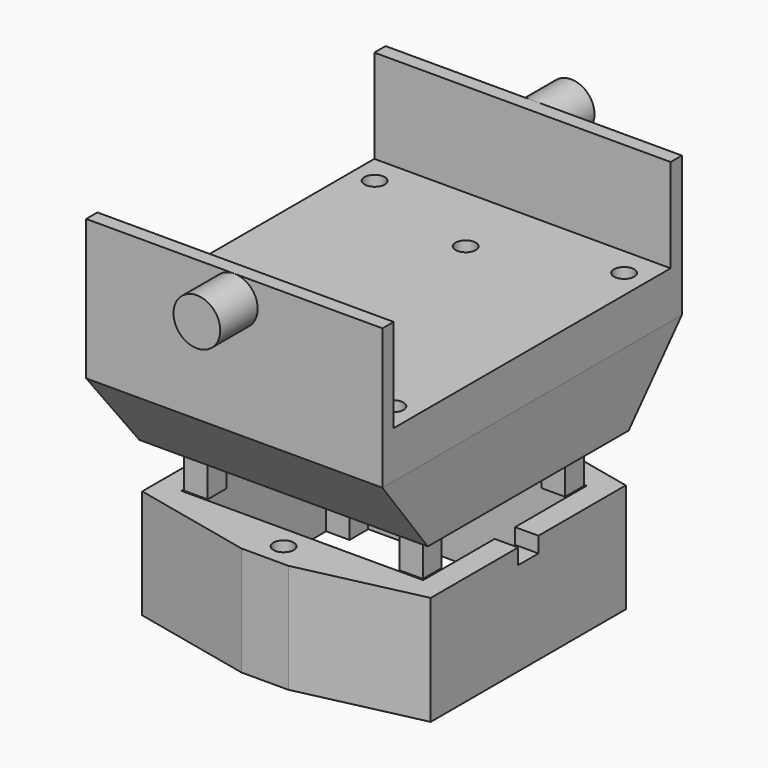
from build123d import *

# Parameters (mm, degrees)
SKETCH_W        = 19
SKETCH_H        = 24
SKETCH_R        = 0.65
PAD_DEPTH       = 9
SKETCH002_W     = 22.2
SKETCH002_H     = 9
POCKET_DEPTH    = 19.001
SKETCH003_W     = 18.5
SKETCH003_H     = 16.1
SKETCH004_W     = 19
SKETCH004_H     = 24
SKETCH009_R     = 0.65
POCKET003_DEPTH = 14.001
SKETCH010_W     = 15.3
SKETCH010_H     = 12.9
PAD002_DEPTH    = 3
POCKET004_DEPTH = 3
SKETCH013_R     = 1.5
PAD003_DEPTH    = 3
SKETCH014_R     = 1.5
PAD004_DEPTH    = 3
PAD001_DEPTH    = 7
SKETCH006_R     = 0.65
POCKET001_DEPTH = 7.001
SKETCH008_W     = 15.5
SKETCH008_H     = 13.1
POCKET002_DEPTH = 5.2
SKETCH015_W     = 1.635484
SKETCH015_H     = 1
POCKET005_DEPTH = 30


with BuildPart() as body:
    # Sketch → Pad (new body)
    with BuildSketch(Plane.XY):
        with Locations((9.5, 11)):
            Rectangle(SKETCH_W, SKETCH_H)
        with Locations((1.5, 20.25)):
            Circle(SKETCH_R, mode=Mode.SUBTRACT)
        with Locations((17.5, 20.25)):
            Circle(SKETCH_R, mode=Mode.SUBTRACT)
        with Locations((17.5, 1.75)):
            Circle(SKETCH_R, mode=Mode.SUBTRACT)
        with Locations((1.5, 1.75)):
            Circle(SKETCH_R, mode=Mode.SUBTRACT)
    extrude(amount=PAD_DEPTH)

    # Sketch002 (on Face4 of Pad) → Pocket (cut, through all)
    with BuildSketch(Plane(origin=(0, 0, 0), x_dir=(0, -1, 0), z_dir=(-1, 0, 0))):
        with Locations((-11, 7.5)):
            Rectangle(SKETCH002_W, SKETCH002_H)
    extrude(amount=-POCKET_DEPTH, mode=Mode.SUBTRACT)

    # Sketch003 → AdditiveLoft section 0
    with BuildSketch(Plane.XY.offset(-5)):
        with Locations((9.5, 11)):
            Rectangle(SKETCH003_W, SKETCH003_H)
    # Sketch004 → AdditiveLoft section 1
    with BuildSketch(Plane.XY):
        with Locations((9.5, 11)):
            Rectangle(SKETCH004_W, SKETCH004_H)
    loft()

    # Sketch009 (on Face13 of AdditiveLoft) → Pocket003 (cut, through all)
    with BuildSketch(Plane(origin=(0, 0, -5), x_dir=(1, 0, 0), z_dir=(0, 0, -1))):
        with Locations((9.5, -4.45)):
            Circle(SKETCH009_R)
        with Locations((9.5, -17.55)):
            Circle(SKETCH009_R)
    extrude(amount=-POCKET003_DEPTH, mode=Mode.SUBTRACT)

    # Sketch010 (on Face13 of Pocket003) → Pad002 (join)
    with BuildSketch(Plane(origin=(0, 0, -5), x_dir=(1, 0, 0), z_dir=(0, 0, -1))):
        with Locations((9.5, -11)):
            Rectangle(SKETCH010_W, SKETCH010_H)
    extrude(amount=PAD002_DEPTH)

    # Sketch011 (on Face31 of Pad002) → Pocket004 (cut)
    with BuildSketch(Plane(origin=(0, 0, -8), x_dir=(1, 0, 0), z_dir=(0, 0, -1))):
        Polygon((3.35, -4.55), (3.35, -6.05), (1.85, -6.05), (1.85, -15.95), (3.35, -15.95), (3.35, -17.45), (15.65, -17.45), (15.65, -15.95), (17.15, -15.95), (17.15, -6.05), (15.65, -6.05), (15.65, -4.55), align=None)
    extrude(amount=-POCKET004_DEPTH, mode=Mode.SUBTRACT)

    # Sketch013 (on Face11 of Pocket004) → Pad003 (join)
    with BuildSketch(Plane(origin=(0, 23, 0), x_dir=(-1, 0, 0), z_dir=(0, 1, 0))):
        with Locations((-9.5, 7.5)):
            Circle(SKETCH013_R)
    extrude(amount=PAD003_DEPTH)

    # Sketch014 (on Face1 of Pad003) → Pad004 (join)
    with BuildSketch(Plane.XZ.offset(1)):
        with Locations((9.5, 7.5)):
            Circle(SKETCH014_R)
    extrude(amount=PAD004_DEPTH)


with BuildPart() as body001:
    # Sketch005 → Pad001 (new body)
    with BuildSketch(Plane.XY.offset(-5)):
        Polygon((18.75, 18.817742), (18.75, 3.182258), (11, 1.45), (8, 1.45), (0.25, 3.182258), (0.25, 18.817742), (8, 20.55), (11, 20.55), align=None)
        Polygon((3.25, 16.05), (1.75, 16.05), (1.75, 5.95), (3.25, 5.95), (3.25, 4.45), (15.75, 4.45), (15.75, 5.95), (17.25, 5.95), (17.25, 16.05), (15.75, 16.05), (15.75, 17.55), (3.25, 17.55), align=None, mode=Mode.SUBTRACT)
    extrude(amount=PAD001_DEPTH)

    # Sketch006 (on Face21 of Pad001) → Pocket001 (cut, through all)
    with BuildSketch(Plane(origin=(0, 0, -5), x_dir=(1, 0, 0), z_dir=(0, 0, -1))):
        with Locations((9.5, -2.95)):
            Circle(SKETCH006_R)
        with Locations((9.5, -19.05)):
            Circle(SKETCH006_R)
    extrude(amount=-POCKET001_DEPTH, mode=Mode.SUBTRACT)

    # Sketch008 → Pocket002 (cut)
    with BuildSketch(Plane.XY.offset(2)):
        with Locations((9.5, 11)):
            Rectangle(SKETCH008_W, SKETCH008_H)
    extrude(amount=-POCKET002_DEPTH, mode=Mode.SUBTRACT)

    # Sketch015 (on Face1 of Pocket002) → Pocket005 (cut)
    with BuildSketch(Plane.YZ.offset(18.75)):
        with Locations((11, 1.5)):
            Rectangle(SKETCH015_W, SKETCH015_H)
    extrude(amount=-POCKET005_DEPTH, mode=Mode.SUBTRACT)


with BuildPart() as body001_1:
    # Body001 placement: moved
    add(body001.part.moved(Location((0, 0, -10))))


solid = Compound([body.part, body001_1.part])
